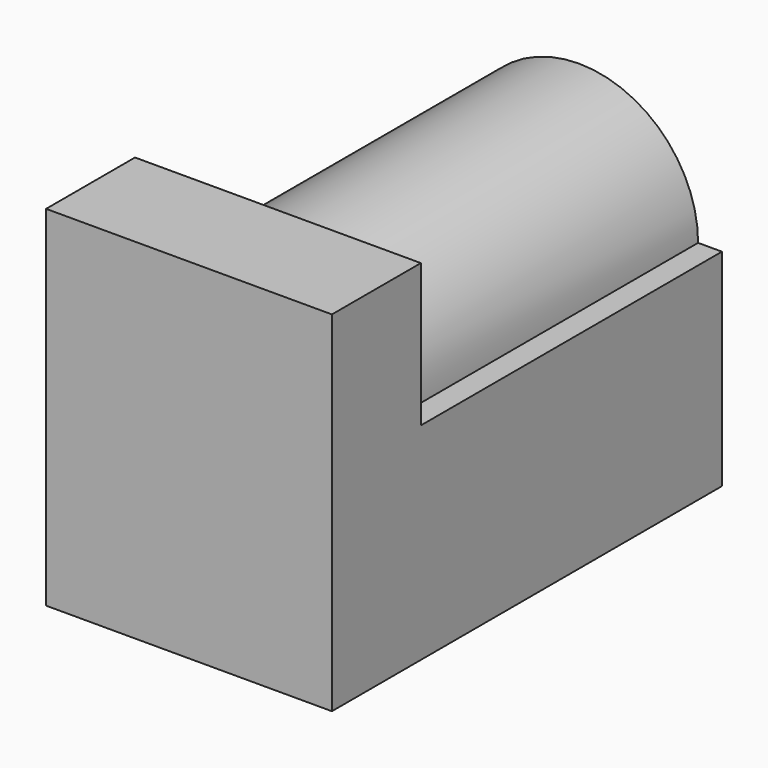
from build123d import *

# Parameters (mm, degrees)
F0_W     = 9
F0_H     = 11
F1_DEPTH = 3.5
F3_DEPTH = 11.85


with BuildPart() as f1:
    # F0 (on Front) → F1 (new body)
    with BuildSketch(Plane.XZ):
        with Locations((0, 5.5)):
            Rectangle(F0_W, F0_H)
    extrude(amount=-F1_DEPTH)

    # F2 (on face) → F3 (join)
    with BuildSketch(Plane(origin=(0, 3.5, 0), x_dir=(-1, 0, 0), z_dir=(0, 1, 0))):
        with BuildLine():
            Line((-4.5, 6.5), (-4.5, 0))
            Line((-4.5, 0), (4.5, 0))
            Line((4.5, 0), (4.5, 6.5))
            Line((4.5, 6.5), (3.75, 6.5))
            ThreePointArc((3.75, 6.5), (0, 10.25), (-3.75, 6.5))
            Line((-3.75, 6.5), (-4.5, 6.5))
        make_face()
    extrude(amount=F3_DEPTH)


solid = f1.part
